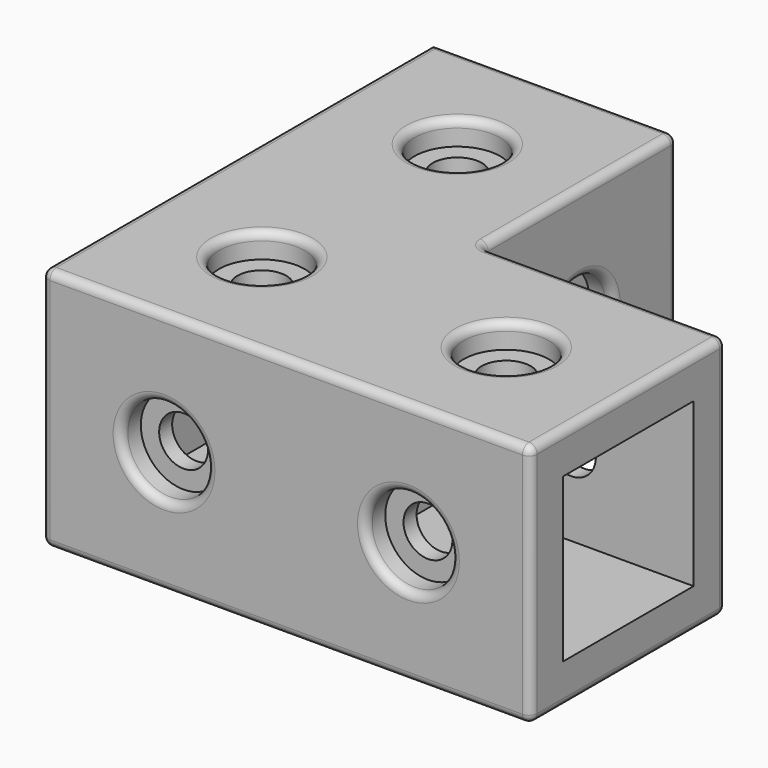
from build123d import *

# Parameters (mm, degrees)
PAD_DEPTH       = 30
SKETCH001_W     = 20
SKETCH001_H     = 20
POCKET_DEPTH    = 30
SKETCH002_W     = 20
SKETCH002_H     = 20
POCKET001_DEPTH = 55
SKETCH003_R     = 3
POCKET002_DEPTH = 30
SKETCH004_R     = 3
POCKET003_DEPTH = 30
SKETCH005_R     = 5.25
POCKET004_DEPTH = 3
SKETCH006_R     = 5.25
POCKET005_DEPTH = 3
SKETCH007_R     = 5.25
POCKET006_DEPTH = 3
SKETCH008_R     = 5.25
POCKET007_DEPTH = 3
SKETCH009_R     = 5.25
POCKET008_DEPTH = 3
SKETCH010_R     = 3
POCKET009_DEPTH = 2
SKETCH011_R     = 3
POCKET010_DEPTH = 30
SKETCH012_R     = 5.25
POCKET011_DEPTH = 3
SKETCH013_R     = 5.25
POCKET012_DEPTH = 3
FILLET_R        = 1


with BuildPart() as part:
    # Sketch → Pad (new body)
    with BuildSketch(Plane.XY):
        Polygon((60, 0), (0, 0), (0, 60), (30, 60), (30, 30), (60, 30), align=None)
    extrude(amount=PAD_DEPTH)

    # Sketch001 (on Face6 of Pad) → Pocket (cut)
    with BuildSketch(Plane.YZ.offset(60)):
        with Locations((15, 15)):
            Rectangle(SKETCH001_W, SKETCH001_H)
    extrude(amount=-POCKET_DEPTH, mode=Mode.SUBTRACT)

    # Sketch002 (on Face11 of Pocket) → Pocket001 (cut)
    with BuildSketch(Plane(origin=(0, 60, 0), x_dir=(-1, 0, 0), z_dir=(0, 1, 0))):
        with Locations((-15, 15)):
            Rectangle(SKETCH002_W, SKETCH002_H)
    extrude(amount=-POCKET001_DEPTH, mode=Mode.SUBTRACT)

    # Sketch003 (on Face6 of Pocket001) → Pocket002 (cut)
    with BuildSketch(Plane(origin=(0, 30, 0), x_dir=(-1, 0, 0), z_dir=(0, 1, 0))):
        with Locations((-45, 15)):
            Circle(SKETCH003_R)
    extrude(amount=-POCKET002_DEPTH, mode=Mode.SUBTRACT)

    # Sketch004 (on Face5 of Pocket002) → Pocket003 (cut)
    with BuildSketch(Plane(origin=(0, 0, 0), x_dir=(0, -1, 0), z_dir=(-1, 0, 0))):
        with Locations((-15, 15)):
            Circle(SKETCH004_R)
        with Locations((-45, 15)):
            Circle(SKETCH004_R)
    extrude(amount=-POCKET003_DEPTH, mode=Mode.SUBTRACT)

    # Sketch005 (on Face18 of Pocket003) → Pocket004 (cut)
    with BuildSketch(Plane(origin=(25, 0, 0), x_dir=(0, -1, 0), z_dir=(-1, 0, 0))):
        with Locations((-15, 15)):
            Circle(SKETCH005_R)
    extrude(amount=-POCKET004_DEPTH, mode=Mode.SUBTRACT)

    # Sketch006 (on Face5 of Pocket004) → Pocket005 (cut)
    with BuildSketch(Plane(origin=(0, 0, 0), x_dir=(0, -1, 0), z_dir=(-1, 0, 0))):
        with Locations((-45, 15)):
            Circle(SKETCH006_R)
        with Locations((-15, 15)):
            Circle(SKETCH006_R)
    extrude(amount=-POCKET005_DEPTH, mode=Mode.SUBTRACT)

    # Sketch007 (on Face7 of Pocket005) → Pocket006 (cut)
    with BuildSketch(Plane(origin=(0, 30, 0), x_dir=(-1, 0, 0), z_dir=(0, 1, 0))):
        with Locations((-45, 15)):
            Circle(SKETCH007_R)
    extrude(amount=-POCKET006_DEPTH, mode=Mode.SUBTRACT)

    # Sketch008 (on Face13 of Pocket006) → Pocket007 (cut)
    with BuildSketch(Plane.YZ.offset(30)):
        with Locations((45, 15)):
            Circle(SKETCH008_R)
    extrude(amount=-POCKET007_DEPTH, mode=Mode.SUBTRACT)

    # Sketch009 (on Face1 of Pocket007) → Pocket008 (cut)
    with BuildSketch(Plane.XZ):
        with Locations((15, 15)):
            Circle(SKETCH009_R)
        with Locations((45, 15)):
            Circle(SKETCH009_R)
    extrude(amount=-POCKET008_DEPTH, mode=Mode.SUBTRACT)

    # Sketch010 (on Face18 of Pocket008) → Pocket009 (cut)
    with BuildSketch(Plane.XZ.offset(-3)):
        with Locations((15, 15)):
            Circle(SKETCH010_R)
    extrude(amount=-POCKET009_DEPTH, mode=Mode.SUBTRACT)

    # Sketch011 (on Face4 of Pocket009) → Pocket010 (cut)
    with BuildSketch(Plane.XY.offset(30)):
        with Locations((15, 45)):
            Circle(SKETCH011_R)
        with Locations((15, 15)):
            Circle(SKETCH011_R)
        with Locations((45, 15)):
            Circle(SKETCH011_R)
    extrude(amount=-POCKET010_DEPTH, mode=Mode.SUBTRACT)

    # Sketch012 (on Face4 of Pocket010) → Pocket011 (cut)
    with BuildSketch(Plane.XY.offset(30)):
        with Locations((15, 45)):
            Circle(SKETCH012_R)
        with Locations((15, 15)):
            Circle(SKETCH012_R)
        with Locations((45, 15)):
            Circle(SKETCH012_R)
    extrude(amount=-POCKET011_DEPTH, mode=Mode.SUBTRACT)

    # Sketch013 (on Face3 of Pocket011) → Pocket012 (cut)
    with BuildSketch(Plane(origin=(0, 0, 0), x_dir=(1, 0, 0), z_dir=(0, 0, -1))):
        with Locations((45, -15)):
            Circle(SKETCH013_R)
        with Locations((15, -15)):
            Circle(SKETCH013_R)
        with Locations((15, -45)):
            Circle(SKETCH013_R)
    extrude(amount=-POCKET012_DEPTH, mode=Mode.SUBTRACT)

    # Fillet
    fillet_edges = [part.edges().sort_by_distance(p)[0] for p in [
        (60, 0, 15),
        (30, 0, 0),
        (30, 0, 30),
        (0, 0, 15),
        (39.75, 0, 15),
        (9.75, 0, 15),
        (60, 15, 30),
        (0, 30, 30),
        (45, 30, 30),
        (15, 60, 30),
        (30, 45, 30),
        (9.75, 15, 30),
        (39.75, 15, 30),
        (9.75, 45, 30),
        (30, 60, 15),
        (30, 45, 0),
        (30, 30, 15),
        (30, 39.75, 15),
        (45, 30, 0),
        (60, 30, 15),
        (50.25, 30, 15),
        (60, 15, 0),
        (0, 30, 0),
        (15, 60, 0),
        (9.75, 15, 0),
        (39.75, 15, 0),
        (9.75, 45, 0),
    ]]
    fillet(fillet_edges, radius=FILLET_R)


solid = part.part
